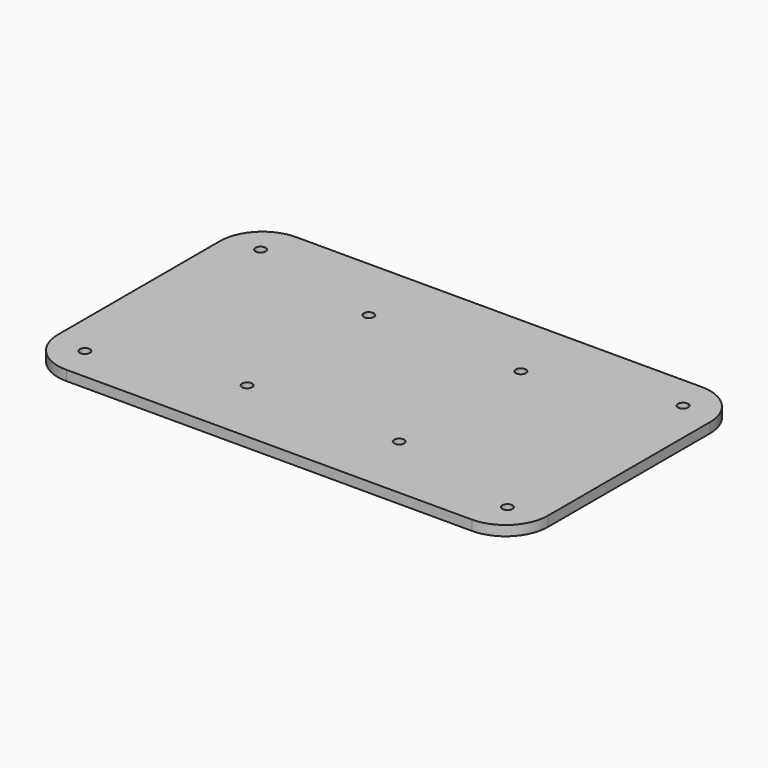
from build123d import *

# Parameters (mm, degrees)
PAD015_DEPTH    = 2.9972
SKETCH022_R     = 1.524
POCKET002_DEPTH = 2.9972
SKETCH023_R     = 1.524
POCKET003_DEPTH = 2.9972


with BuildPart() as part:
    # Sketch018 → Pad015 (new body)
    with BuildSketch(Plane.XY.offset(-34.5948)):
        with BuildLine():
            Line((-60.96, 43.18), (60.96, 43.18))
            ThreePointArc((73.66, 30.48), (69.940256, 39.460256), (60.96, 43.18))
            Line((73.66, 30.48), (73.66, -30.48))
            ThreePointArc((60.96, -43.18), (69.940256, -39.460256), (73.66, -30.48))
            Line((60.96, -43.18), (-60.96, -43.18))
            ThreePointArc((-73.66, -30.48), (-69.940256, -39.460256), (-60.96, -43.18))
            Line((-73.66, -30.48), (-73.66, 30.48))
            ThreePointArc((-60.96, 43.18), (-69.940256, 39.460256), (-73.66, 30.48))
        make_face()
    extrude(amount=-PAD015_DEPTH)

    # Sketch022 → Pocket002 (cut)
    with BuildSketch(Plane(origin=(0, 0, -37.592), x_dir=(1, 0, 0), z_dir=(0, 0, -1))):
        with Locations((-63.5, 33.02)):
            Circle(SKETCH022_R)
        with Locations((-63.5, -33.02)):
            Circle(SKETCH022_R)
        with Locations((63.5, -33.02)):
            Circle(SKETCH022_R)
        with Locations((63.5, 33.02)):
            Circle(SKETCH022_R)
    extrude(amount=-POCKET002_DEPTH, mode=Mode.SUBTRACT)

    # Sketch023 → Pocket003 (cut)
    with BuildSketch(Plane(origin=(0, 0, -37.592), x_dir=(1, 0, 0), z_dir=(0, 0, -1))):
        with Locations((-22.86, 22.86)):
            Circle(SKETCH023_R)
        with Locations((-22.86, -22.86)):
            Circle(SKETCH023_R)
        with Locations((22.86, -22.86)):
            Circle(SKETCH023_R)
        with Locations((22.86, 22.86)):
            Circle(SKETCH023_R)
    extrude(amount=-POCKET003_DEPTH, mode=Mode.SUBTRACT)


solid = part.part
